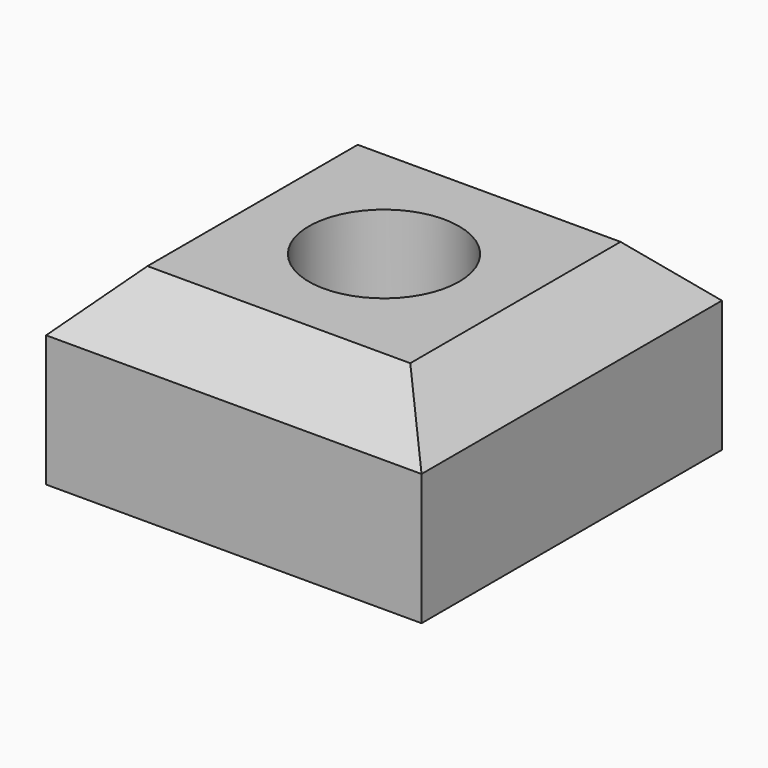
from build123d import *

# Parameters (mm, degrees)
F0_W     = 20
F0_H     = 20
F0_R     = 4
F1_DEPTH = 10
F2_SIZE  = 3


with BuildPart() as f1:
    # F0 (on Top) → F1 (new body)
    with BuildSketch(Plane.XY):
        Rectangle(F0_W, F0_H)
        Circle(F0_R, mode=Mode.SUBTRACT)
    extrude(amount=F1_DEPTH)

    # F2
    f2_edges = [f1.edges().sort_by_distance(p)[0] for p in [
        (0, -10, 10),
        (-10, 0, 10),
        (0, 10, 10),
        (10, 0, 10),
    ]]
    chamfer(f2_edges, length=F2_SIZE)


solid = f1.part
